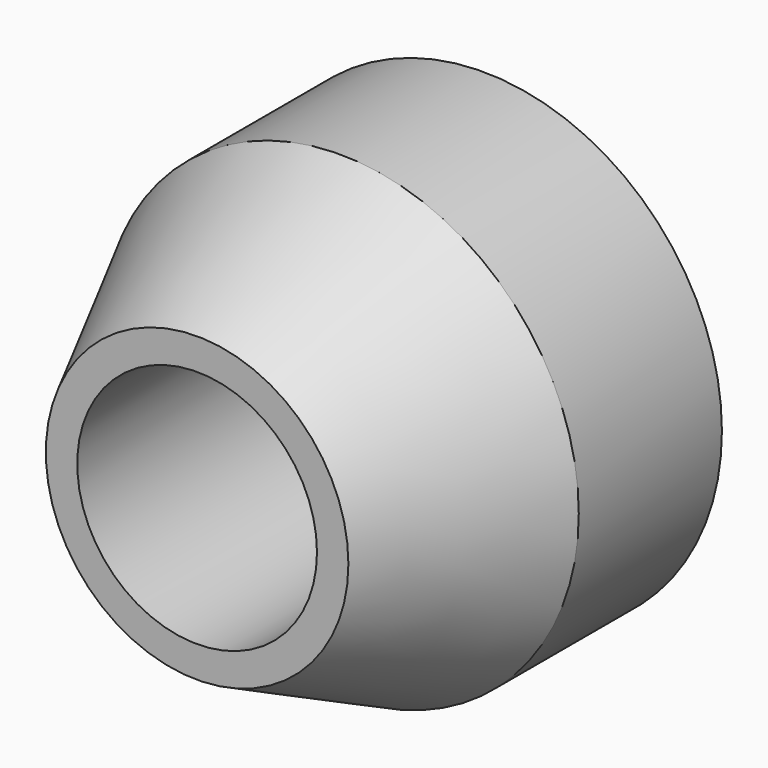
from build123d import *

# Parameters (mm, degrees)
F0_R      = 40
F1_DEPTH  = 30
F1_FACE_R = 40
F2_DEPTH  = 30
F2_TAPER  = 26
F3_R      = 20.1
F4_DEPTH  = 60.001


with BuildPart() as f1:
    # F0 (on Front) → F1 (new body)
    with BuildSketch(Plane.XZ):
        Circle(F0_R)
    extrude(amount=F1_DEPTH)

    # F1_face (on face) → F2 (join)
    with BuildSketch(Plane.XZ.offset(30)):
        Circle(F1_FACE_R)
    extrude(amount=F2_DEPTH, taper=F2_TAPER)

    # F3 (on face) → F4 (cut, through all)
    with BuildSketch(Plane.XZ.offset(60)):
        Circle(F3_R)
    extrude(amount=-F4_DEPTH, mode=Mode.SUBTRACT)


solid = f1.part
